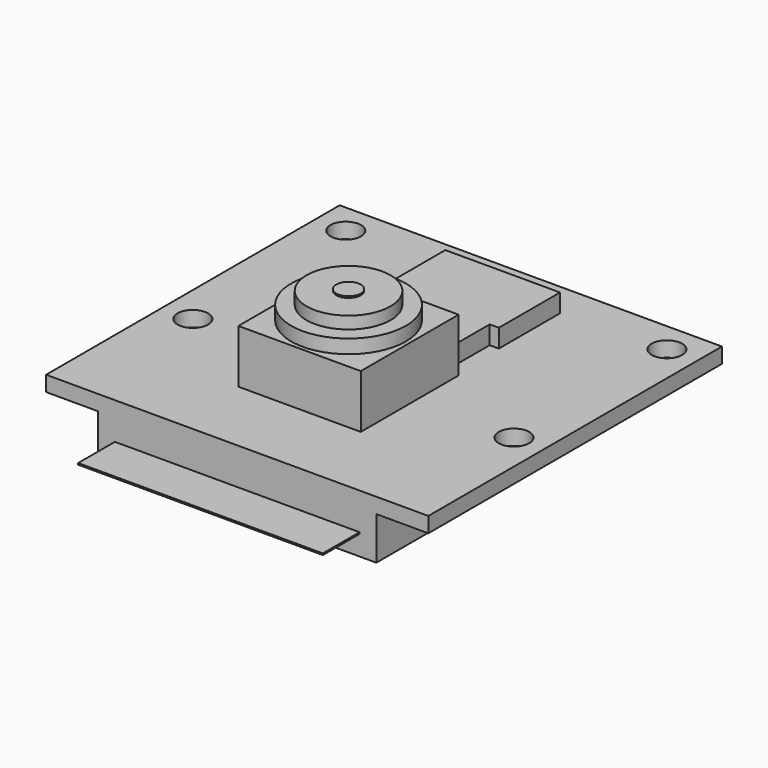
from build123d import *

# Parameters (mm, degrees)
F0_W      = 25
F0_H      = 24
F0_R      = 1
F1_DEPTH  = 1
F2_R      = 3.75
F2_R_2    = 2.75
F3_DEPTH  = 3.5
F4_DEPTH  = 4.4
F5_DEPTH  = 5.2
F6_R      = 0.8
F7_DEPTH  = 0.1
F8_W      = 18.2
F8_H      = 5.6
F9_DEPTH  = 2.8
F11_DEPTH = 1.2
F13_W     = 16
F13_H     = 3
F14_DEPTH = 0.1


with BuildPart() as f1:
    # F0 (on Top) → F1 (new body)
    with BuildSketch(Plane.XY):
        Rectangle(F0_W, F0_H)
        with Locations((-10.5, -2.5)):
            Circle(F0_R, mode=Mode.SUBTRACT)
        with Locations((10.5, -2.5)):
            Circle(F0_R, mode=Mode.SUBTRACT)
        with Locations((-10.5, 10)):
            Circle(F0_R, mode=Mode.SUBTRACT)
        with Locations((10.5, 10)):
            Circle(F0_R, mode=Mode.SUBTRACT)
    extrude(amount=F1_DEPTH)

    # F2 (on face) → F3 (join)
    with BuildSketch(Plane.XY.offset(1)):
        Polygon((4, -6.9), (4, 1.1), (3.4, 1.1), (-3.4, 1.1), (-4, 1.1), (-4, -6.9), align=None)
        with Locations((0, -2.9)):
            Circle(F2_R, mode=Mode.SUBTRACT)
        with Locations((0, -2.9)):
            Circle(F2_R)
        with Locations((0, -2.9)):
            Circle(F2_R_2, mode=Mode.SUBTRACT)
        with Locations((0, -2.9)):
            Circle(F2_R_2)
    extrude(amount=F3_DEPTH)

    # F2 (on face) → F4 (join)
    with BuildSketch(Plane.XY.offset(1)):
        with Locations((0, -2.9)):
            Circle(F2_R)
        with Locations((0, -2.9)):
            Circle(F2_R_2, mode=Mode.SUBTRACT)
        with Locations((0, -2.9)):
            Circle(F2_R_2)
    extrude(amount=F4_DEPTH)

    # F2 (on face) → F5 (join)
    with BuildSketch(Plane.XY.offset(1)):
        with Locations((0, -2.9)):
            Circle(F2_R_2)
    extrude(amount=F5_DEPTH)

    # F6 (on face) → F7 (join)
    with BuildSketch(Plane.XY.offset(6.2)):
        with Locations((0, -2.9)):
            Circle(F6_R)
    extrude(amount=F7_DEPTH)

    # F8 (on face) → F9 (join)
    with BuildSketch(Plane(origin=(0, 0, 0), x_dir=(1, 0, 0), z_dir=(0, 0, -1))):
        with Locations((0, 9.2)):
            Rectangle(F8_W, F8_H)
    extrude(amount=F9_DEPTH)

    # F10 (on face) → F11 (join)
    with BuildSketch(Plane.XY.offset(1)):
        Polygon((-3.15, 4.7), (-3.15, 1.1), (3.15, 1.1), (3.15, 4.7), (3.75, 4.7), (3.75, 9.7), (-3.75, 9.7), (-3.75, 4.7), align=None)
    extrude(amount=F11_DEPTH)

    # F13 (on offset) → F14 (join)
    with BuildSketch(Plane(origin=(0, 0, -1.4), x_dir=(1, 0, 0), z_dir=(0, 0, -1))):
        with Locations((0, 13.5)):
            Rectangle(F13_W, F13_H)
    extrude(amount=F14_DEPTH)


with BuildPart() as f15_1:
    # F15: copy of F1
    add(f1.part)


solid = Compound([f1.part, f15_1.part])
